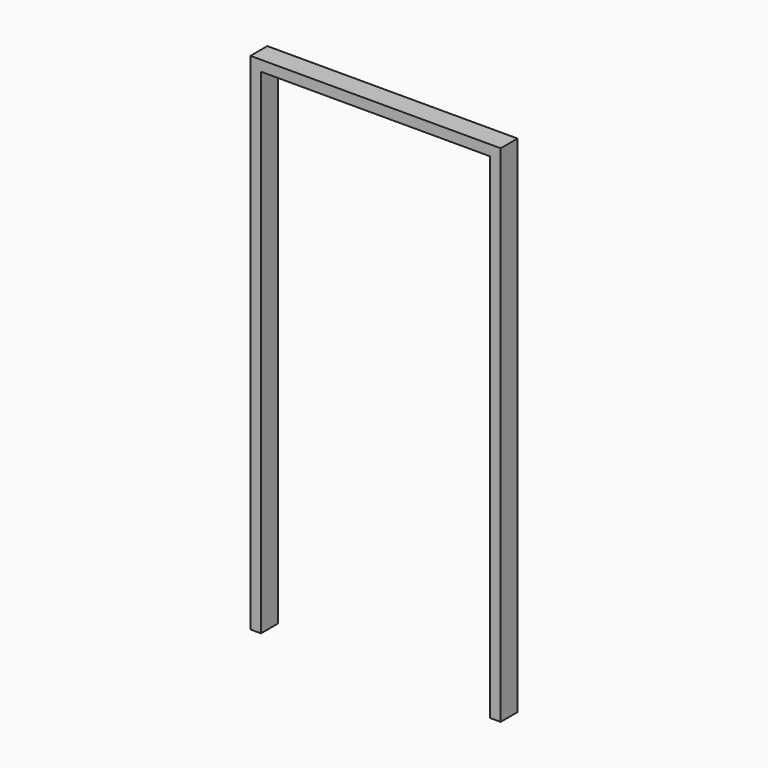
from build123d import *

# Parameters (mm, degrees)
F0_W     = 44.45
F0_H     = 2082.8
F1_DEPTH = 44.45


with BuildPart() as f1:
    # F0 (on Front) → F1 (new body, symmetric)
    with BuildSketch(Plane.XZ):
        with Locations((1031.875, 266.447886)):
            Rectangle(F0_W, F0_H)
        with Locations((22.225, 266.447886)):
            Rectangle(F0_W, F0_H)
        Polygon((0, 1307.847886), (44.45, 1307.847886), (1009.65, 1307.847886), (1054.1, 1307.847886), (1054.1, 1352.297886), (527.05, 1352.297886), (0, 1352.297886), align=None)
    extrude(amount=F1_DEPTH, both=True)


solid = f1.part
